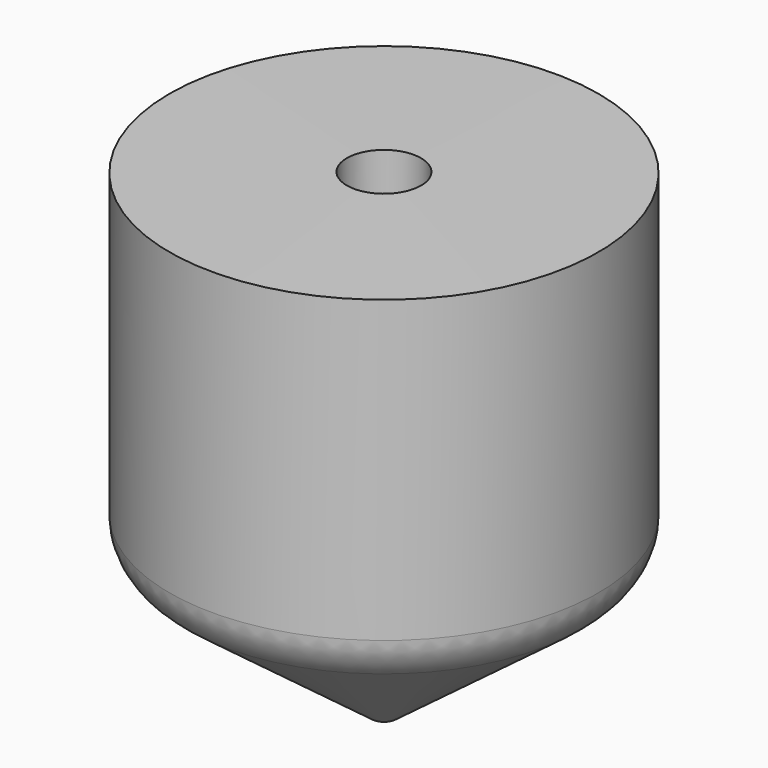
from build123d import *

# Parameters (mm, degrees)
F2_R = 6.35


with BuildPart() as f1:
    # F0 (on Front) → F1 (revolve)
    with BuildSketch(Plane.XZ):
        Polygon((-1.5875, 22.225), (0, 22.225), (0, 53.975), (-4.734279, 53.975), (-27.366861, 53.975), (-27.366861, 21.934323), (-1.5875, 2.54), align=None)
        Polygon((-27.366861, 53.975), (-4.734279, 53.975), (-4.734279, 63.5), (-27.366861, 63.375957), align=None)
    revolve(axis=Axis((0, 0, 31.75), (0, 0, 1)))

    # F2
    f2_edges = [f1.edges().sort_by_distance(p)[0] for p in [
        (27.366861, 0, 21.934323),
    ]]
    fillet(f2_edges, radius=F2_R)


solid = f1.part
